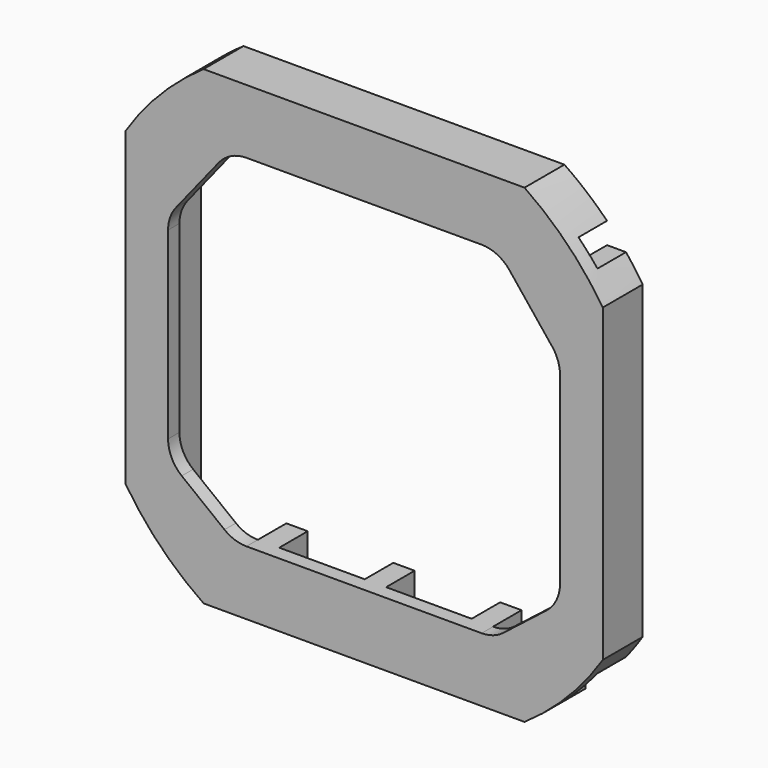
from build123d import *

# Parameters (mm, degrees)
F0_W     = 67
F0_H     = 66
F1_DEPTH = 5
F2_W     = 67
F2_H     = 66
F3_DEPTH = 2
F4_W     = 12
F4_H     = 48
F5_DEPTH = 7.001
F7_DEPTH = 7.001
F8_W     = 6
F8_H     = 6
F9_DEPTH = 5


with BuildPart() as f1:
    # F0 (on Front) → F1 (new body)
    with BuildSketch(Plane.XZ):
        with Locations((28.5, 28)):
            Rectangle(F0_W, F0_H)
        Polygon((12, 0), (0, 0), (0, 56), (12, 56), (12, 52), (15, 52), (15, 56), (27, 56), (27, 52), (30, 52), (30, 56), (42, 56), (42, 52), (45, 52), (45, 56), (57, 56), (57, 0), (45, 0), (45, 4), (42, 4), (42, 0), (30, 0), (30, 4), (27, 4), (27, 0), (15, 0), (15, 4), (12, 4), align=None, mode=Mode.SUBTRACT)
    extrude(amount=F1_DEPTH)

    # F2 (on face) → F3 (join)
    with BuildSketch(Plane.XZ.offset(5)):
        with Locations((28.5, 28)):
            Rectangle(F2_W, F2_H)
        Polygon((12, 56), (12, 52), (15, 52), (15, 56), (27, 56), (27, 52), (30, 52), (30, 56), (42, 56), (42, 52), (45, 52), (45, 56), (57, 56), (57, 0), (45, 0), (45, 4), (42, 4), (42, 0), (30, 0), (30, 4), (27, 4), (27, 0), (15, 0), (15, 4), (12, 4), (12, 0), (0, 0), (0, 56), align=None, mode=Mode.SUBTRACT)
        Polygon((12, 4), (12, 52), (12, 56), (0, 56), (0, 0), (12, 0), align=None)
        Polygon((15, 56), (15, 52), (15, 4), (15, 0), (27, 0), (27, 4), (27, 52), (27, 56), align=None)
        Polygon((30, 56), (30, 52), (30, 4), (30, 0), (42, 0), (42, 4), (42, 52), (42, 56), align=None)
        Polygon((45, 56), (45, 52), (45, 4), (45, 0), (57, 0), (57, 56), align=None)
    extrude(amount=F3_DEPTH)

    # F4 (on face) → F5 (cut, through all)
    with BuildSketch(Plane.XZ.offset(7)):
        with BuildLine():
            Line((12, 4), (12, 52))
            ThreePointArc((12, 52), (9.834056, 51.506516), (8.095656, 50.123475))
            Line((8.095656, 50.123475), (2.095656, 42.623475))
            ThreePointArc((2.095656, 42.623475), (1.281858, 41.155035), (1, 39.5))
            Line((1, 39.5), (1, 13.691391))
            ThreePointArc((1, 13.691391), (1.505613, 11.50039), (2.920194, 9.752509))
            Line((2.920194, 9.752509), (8.920194, 5.061118))
            ThreePointArc((8.920194, 5.061118), (10.37126, 4.272717), (12, 4))
        make_face()
        with Locations((21, 28)):
            Rectangle(F4_W, F4_H)
        with Locations((36, 28)):
            Rectangle(F4_W, F4_H)
        with BuildLine():
            Line((56, 13.691391), (56, 39.5))
            ThreePointArc((56, 39.5), (55.718142, 41.155035), (54.904344, 42.623475))
            Line((54.904344, 42.623475), (48.904344, 50.123475))
            ThreePointArc((48.904344, 50.123475), (47.165944, 51.506516), (45, 52))
            Line((45, 52), (45, 4))
            ThreePointArc((45, 4), (46.62874, 4.272717), (48.079806, 5.061118))
            Line((48.079806, 5.061118), (54.079806, 9.752509))
            ThreePointArc((54.079806, 9.752509), (55.494387, 11.50039), (56, 13.691391))
        make_face()
    extrude(amount=-F5_DEPTH, mode=Mode.SUBTRACT)

    # F6 (on face) → F7 (cut, through all)
    with BuildSketch(Plane.XZ.offset(7)):
        with BuildLine():
            ThreePointArc((-5, 49.765856), (-0.066057, 55.928174), (5.983284, 61))
            Line((5.983284, 61), (-5, 61))
            Line((-5, 61), (-5, 49.765856))
        make_face()
        with BuildLine():
            Line((62, 61), (51.016716, 61))
            ThreePointArc((51.016716, 61), (57.066057, 55.928174), (62, 49.765856))
            Line((62, 49.765856), (62, 61))
        make_face()
        with BuildLine():
            Line((62, -5), (62, 6.234144))
            ThreePointArc((62, 6.234144), (57.066057, 0.071826), (51.016716, -5))
            Line((51.016716, -5), (62, -5))
        make_face()
        with BuildLine():
            ThreePointArc((5.983284, -5), (-0.066057, 0.071826), (-5, 6.234144))
            Line((-5, 6.234144), (-5, -5))
            Line((-5, -5), (5.983284, -5))
        make_face()
    extrude(amount=-F7_DEPTH, mode=Mode.SUBTRACT)

    # F8 (on face) → F9 (cut)
    with BuildSketch(Plane(origin=(0, 0, 0), x_dir=(-1, 0, 0), z_dir=(0, 1, 0))):
        with BuildLine():
            Line((-54, 59), (-60, 59))
            Line((-60, 59), (-60, 53))
            Line((-60, 53), (-54, 53))
            Line((-54, 53), (-54, 56))
            Line((-54, 56), (-56.995658, 56))
            ThreePointArc((-56.995658, 56), (-55.532899, 57.414705), (-54, 58.753089))
            Line((-54, 58.753089), (-54, 59))
        make_face()
        with BuildLine():
            Line((-3, 59), (-3, 58.753089))
            ThreePointArc((-3, 58.753089), (-1.467101, 57.414705), (-0.004342, 56))
            Line((-0.004342, 56), (-3, 56))
            Line((-3, 56), (-3, 53))
            Line((-3, 53), (3, 53))
            Line((3, 53), (3, 59))
            Line((3, 59), (-3, 59))
        make_face()
        Rectangle(F8_W, F8_H)
        with Locations((-57, 0)):
            Rectangle(F8_W, F8_H)
    extrude(amount=-F9_DEPTH, mode=Mode.SUBTRACT)


solid = f1.part
